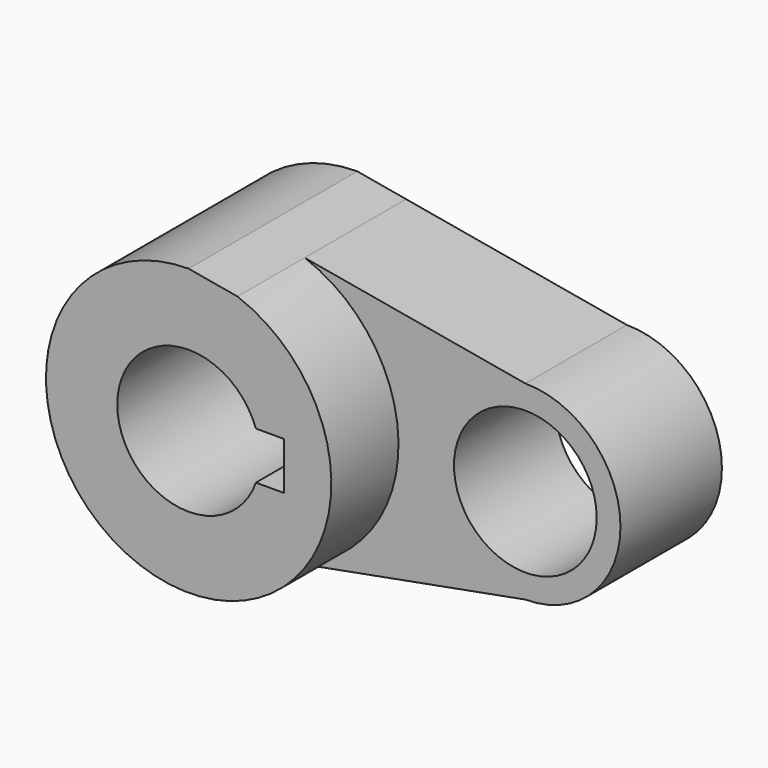
from build123d import *

# Parameters (mm, degrees)
F0_R     = 14.2875
F1_DEPTH = 25.4
F2_DEPTH = 42.21934


with BuildPart() as f1:
    # F0 (on Front) → F1 (new body)
    with BuildSketch(Plane.XZ):
        with BuildLine():
            ThreePointArc((5.2118166453, -28.0956863638), (21.9710978975, -18.2702348693), (28.575, 0))
            ThreePointArc((28.575, 0), (23.4095521288, 16.3866864902), (9.780704698, 26.8489932886))
            Line((9.780704698, 26.8489932886), (0, 28.575))
            ThreePointArc((0, 28.575), (-28.4549192834, -2.6169053435), (5.2118166453, -28.0956863638))
        make_face()
        with BuildLine():
            ThreePointArc((-13.4703841816, 4.7625), (0, 14.2875), (13.4703841816, 4.7625))
            Line((13.4703841816, 4.7625), (19.05, 4.7625))
            Line((19.05, 4.7625), (19.05, -4.7625))
            Line((19.05, -4.7625), (13.4703841816, -4.7625))
            ThreePointArc((13.4703841816, -4.7625), (0, -14.2875), (-13.4703841816, -4.7625))
            Line((-13.4703841816, -4.7625), (-19.05, -4.7625))
            Line((-19.05, -4.7625), (-19.05, 4.7625))
            Line((-19.05, 4.7625), (-13.4703841816, 4.7625))
        make_face(mode=Mode.SUBTRACT)
        with BuildLine():
            ThreePointArc((9.780704698, 26.8489932886), (23.4095521288, 16.3866864902), (28.575, 0))
            ThreePointArc((28.575, 0), (21.9710978975, -18.2702348693), (5.2118166453, -28.0956863638))
            Line((5.2118166453, -28.0956863638), (53.975, -19.05))
            ThreePointArc((53.975, -19.05), (34.925, 0), (53.975, 19.05))
            Line((53.975, 19.05), (9.780704698, 26.8489932886))
        make_face()
        with BuildLine():
            ThreePointArc((73.025, 0), (67.4453841816, 13.4703841816), (53.975, 19.05))
            ThreePointArc((53.975, 19.05), (34.925, 0), (53.975, -19.05))
            ThreePointArc((53.975, -19.05), (67.4453841816, -13.4703841816), (73.025, 0))
        make_face()
        with Locations((53.975, 0)):
            Circle(F0_R, mode=Mode.SUBTRACT)
        with BuildLine():
            ThreePointArc((-13.4703841816, -4.7625), (-14.2875, 0), (-13.4703841816, 4.7625))
            Line((-13.4703841816, 4.7625), (-19.05, 4.7625))
            Line((-19.05, 4.7625), (-19.05, -4.7625))
            Line((-19.05, -4.7625), (-13.4703841816, -4.7625))
        make_face()
    extrude(amount=F1_DEPTH)

    # F0 (on Front) → F2 (join)
    with BuildSketch(Plane.XZ):
        with BuildLine():
            ThreePointArc((5.2118166453, -28.0956863638), (21.9710978975, -18.2702348693), (28.575, 0))
            ThreePointArc((28.575, 0), (23.4095521288, 16.3866864902), (9.780704698, 26.8489932886))
            Line((9.780704698, 26.8489932886), (0, 28.575))
            ThreePointArc((0, 28.575), (-28.4549192834, -2.6169053435), (5.2118166453, -28.0956863638))
        make_face()
        with BuildLine():
            ThreePointArc((-13.4703841816, 4.7625), (0, 14.2875), (13.4703841816, 4.7625))
            Line((13.4703841816, 4.7625), (19.05, 4.7625))
            Line((19.05, 4.7625), (19.05, -4.7625))
            Line((19.05, -4.7625), (13.4703841816, -4.7625))
            ThreePointArc((13.4703841816, -4.7625), (0, -14.2875), (-13.4703841816, -4.7625))
            Line((-13.4703841816, -4.7625), (-19.05, -4.7625))
            Line((-19.05, -4.7625), (-19.05, 4.7625))
            Line((-19.05, 4.7625), (-13.4703841816, 4.7625))
        make_face(mode=Mode.SUBTRACT)
        with BuildLine():
            ThreePointArc((-13.4703841816, -4.7625), (-14.2875, 0), (-13.4703841816, 4.7625))
            Line((-13.4703841816, 4.7625), (-19.05, 4.7625))
            Line((-19.05, 4.7625), (-19.05, -4.7625))
            Line((-19.05, -4.7625), (-13.4703841816, -4.7625))
        make_face()
    extrude(amount=F2_DEPTH)


solid = f1.part
